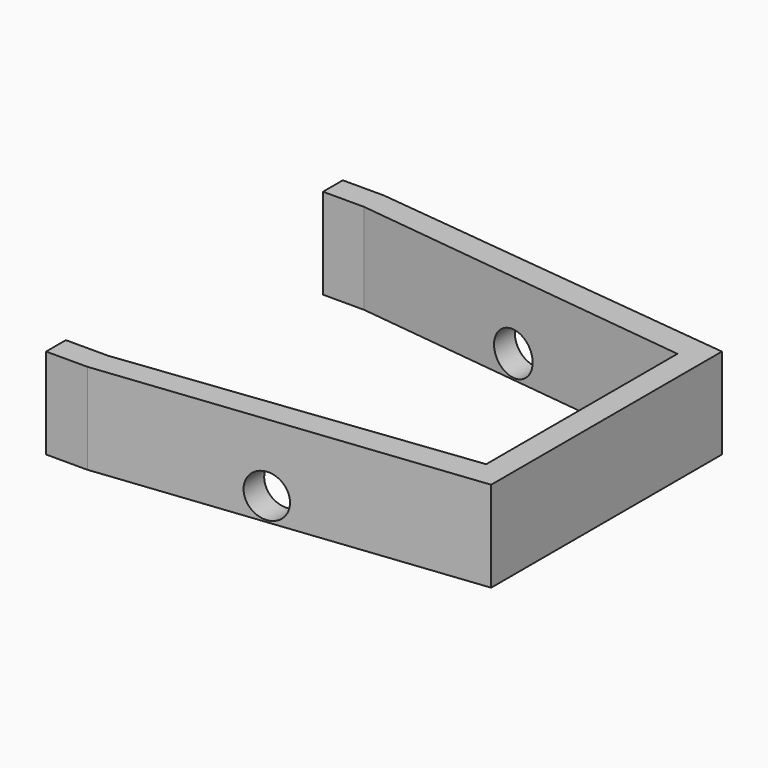
from build123d import *

# Parameters (mm, degrees)
SKETCH042_R      = 5.177463
EXTRUDE045_DEPTH = 800
EXTRUDE044_DEPTH = 22


with BuildPart() as extrude045:
    # Sketch042 → Extrude045 (new body)
    with BuildSketch(Plane.XZ):
        with Locations((70, 3.62)):
            Circle(SKETCH042_R)
    extrude(amount=EXTRUDE045_DEPTH)


with BuildPart() as extrude045_1:
    # Extrude045 placement: moved
    add(extrude045.part.moved(Location((0, 293, 0))))


with BuildPart() as obj1:
    # Sketch041 → Extrude044 (new body)
    with BuildSketch(Plane.XY):
        Polygon((30, 0), (120, 10), (120, 80), (30, 90), (20, 90), (20, 84), (30, 84), (114, 74), (114, 16), (30.22679, 6), (20, 6), (20, 0), align=None)
    extrude(amount=EXTRUDE044_DEPTH)


with BuildPart() as obj1_1:
    # Extrude044 placement: moved
    add(obj1.part.moved(Location((0, 0, -2))))

    # Cut014: cut Extrude045
    add(extrude045_1.part, mode=Mode.SUBTRACT)


with BuildPart() as obj1_2:
    # Cut014 placement: moved
    add(obj1_1.part.moved(Location((0, 0, -7.9))))


solid = obj1_2.part
